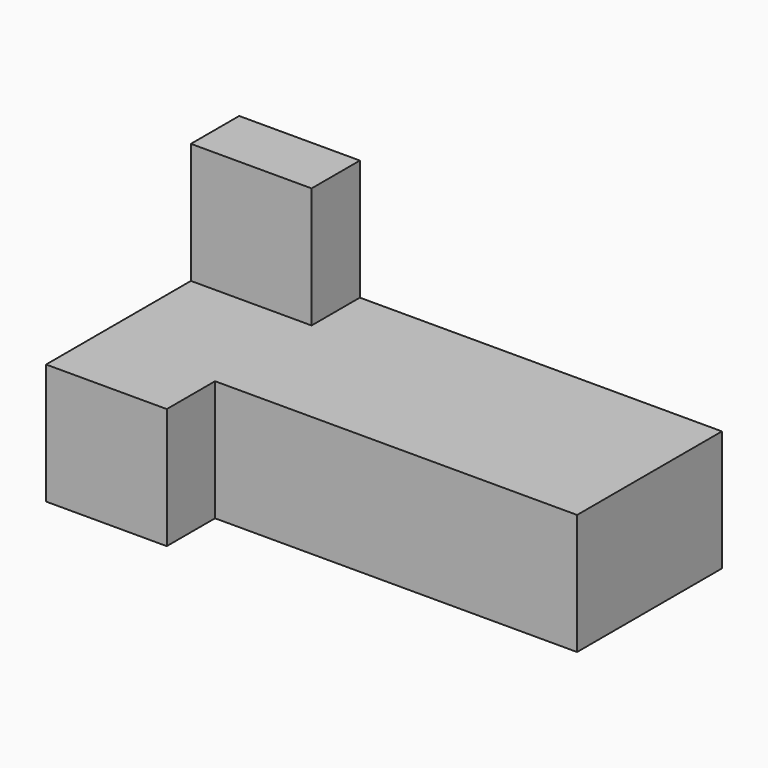
from build123d import *

# Parameters (mm, degrees)
F0_W     = 203.2
F0_H     = 50.8
F1_DEPTH = 101.6
F2_W     = 152.4
F2_H     = 50.8
F3_DEPTH = 25.4
F4_W     = 50.8
F4_H     = 25.4
F5_DEPTH = 50.8


with BuildPart() as f1:
    # F0 (on Front) → F1 (new body)
    with BuildSketch(Plane.XZ):
        with Locations((-27.040662, 3.12108)):
            Rectangle(F0_W, F0_H)
    extrude(amount=F1_DEPTH)

    # F2 (on face) → F3 (cut)
    with BuildSketch(Plane.XZ.offset(101.6)):
        with Locations((-1.640662, 3.12108)):
            Rectangle(F2_W, F2_H)
    extrude(amount=-F3_DEPTH, mode=Mode.SUBTRACT)

    # F4 (on face) → F5 (join)
    with BuildSketch(Plane.XY.offset(28.52108)):
        with Locations((-103.240662, -12.7)):
            Rectangle(F4_W, F4_H)
    extrude(amount=F5_DEPTH)


solid = f1.part
